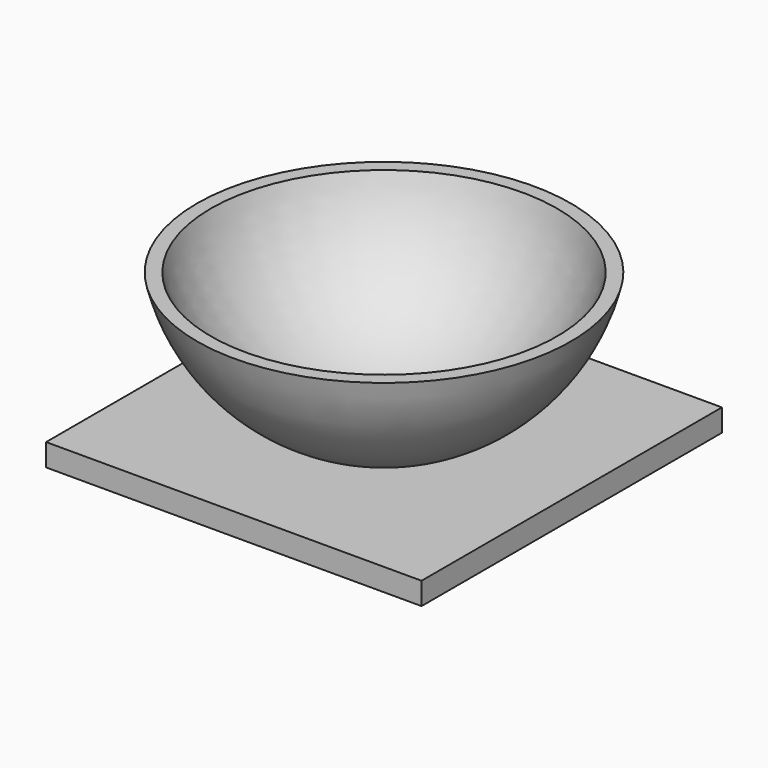
from build123d import *

# Parameters (mm, degrees)
F0_W     = 42
F0_H     = 42
F1_DEPTH = 2.5


with BuildPart() as f1:
    # F0 (on Top) → F1 (new body)
    with BuildSketch(Plane.XY):
        Rectangle(F0_W, F0_H)
    extrude(amount=F1_DEPTH)

    # F2 (on Front) → F3 (revolve)
    with BuildSketch(Plane.XZ):
        with BuildLine():
            ThreePointArc((-20.910524, 17.5), (-13.318221, 5.62176), (0, 1))
            Line((0, 1), (0, 2.5))
            ThreePointArc((0, 2.5), (-12.247449, 6.688612), (-19.364917, 17.5))
            Line((-19.364917, 17.5), (-20.910524, 17.5))
        make_face()
    revolve(axis=Axis((0, 0, 8.75), (0, 0, 1)))


solid = f1.part
